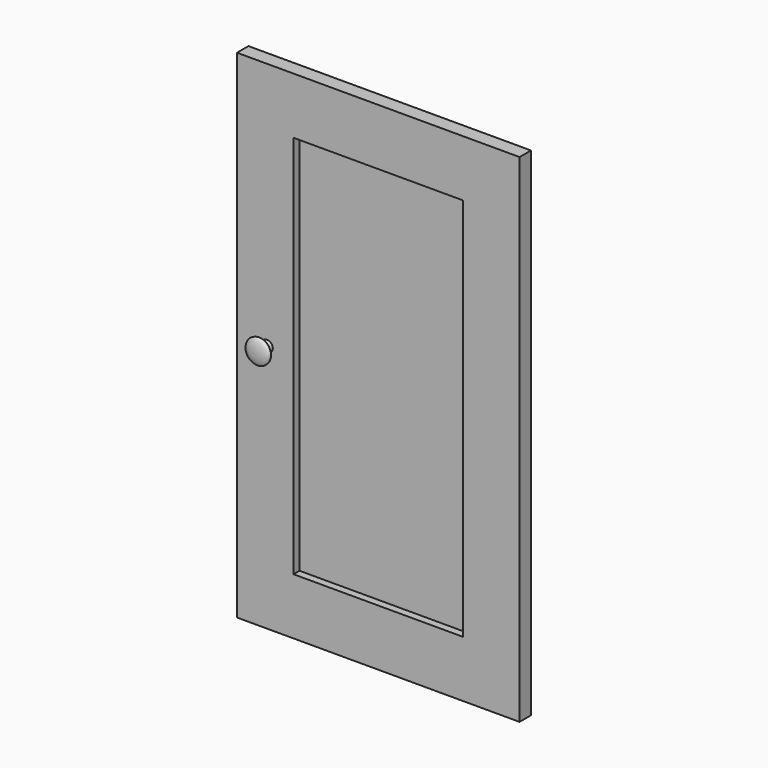
from build123d import *

# Parameters (mm, degrees)
CLONE2D002_W    = 375
CLONE2D002_H    = 660
PAD011_DEPTH    = 19
SKETCH027_W     = 225
SKETCH027_H     = 510
POCKET011_DEPTH = 10


with BuildPart() as part:
    # Clone2D002 → Pad011 (new body)
    with BuildSketch(Plane.XZ):
        with Locations((187.5, 330)):
            Rectangle(CLONE2D002_W, CLONE2D002_H)
    extrude(amount=PAD011_DEPTH)

    # Sketch027 (on Face6 of Pad011) → Pocket011 (cut)
    with BuildSketch(Plane.XZ.offset(19)):
        with Locations((187.5, 330)):
            Rectangle(SKETCH027_W, SKETCH027_H)
    extrude(amount=-POCKET011_DEPTH, mode=Mode.SUBTRACT)

    # Clone2D003 (on Face1 of Pocket011) → Revolution001 (revolve)
    with BuildSketch(Plane(origin=(40, -19, 330), x_dir=(-1, 0, 0), z_dir=(0, 0, -1))):
        with BuildLine():
            Line((0, 0), (0, -20))
            add(Edge.make_bspline(
                [(0, -20), (-18, -20), (-18, -9.133286), (-4.506424, -9.133286), (-7.5, 0)],
                knots=[0, 0, 0, 0, 0.5, 1, 1, 1, 1], degree=3, weights=[7, 6.116989, 5.810816, 6.060123, 5.999522]))
            Line((-7.5, 0), (0, 0))
        make_face()
    revolve(axis=Axis((40, -19, 330), (0, 1, 0)))


with BuildPart() as part_1:
    # Body011 placement: moved
    add(part.part.moved(Location((1175, 0, 10))))


solid = part_1.part
